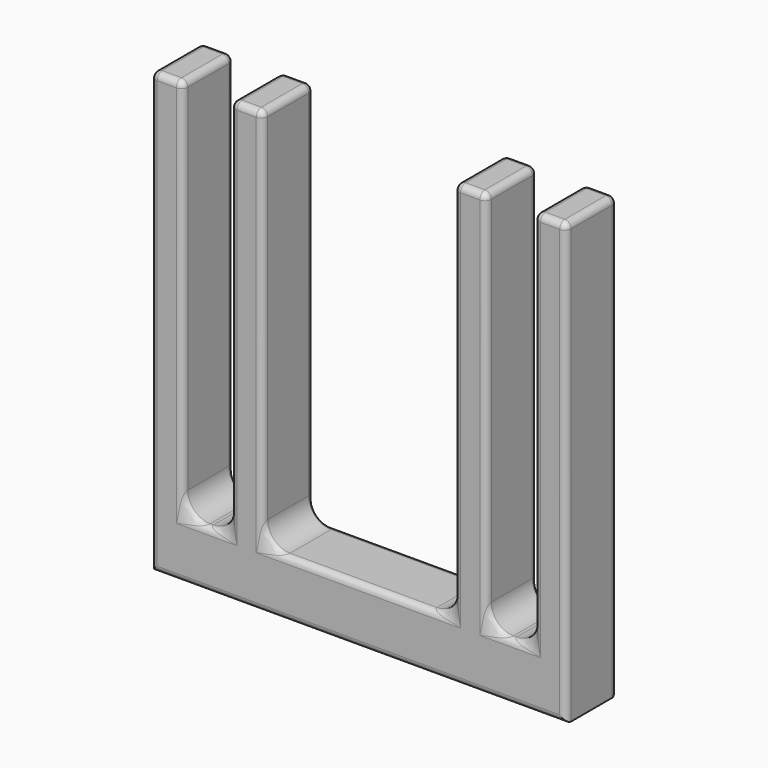
from build123d import *

# Parameters (mm, degrees)
PAD_DEPTH   = 10
FILLET_R    = 1
FILLET001_R = 3.5


with BuildPart() as part:
    # Sketch → Pad (new body)
    with BuildSketch(Plane.XZ):
        Polygon((-29.192235, 60), (-24.192235, 60), (-24.192235, 0), (-16.692235, 0), (-16.692235, 60), (-11.692235, 60), (-11.692235, 0), (18.307765, 0), (18.307765, 60), (23.307765, 60), (23.307765, 0), (30.807765, 0), (30.807765, 60), (35.807765, 60), (35.807765, -8.881385), (-29.192235, -8.881385), align=None)
    extrude(amount=PAD_DEPTH)

    # Fillet
    fillet_edges = [part.edges().sort_by_distance(p)[0] for p in [
        (-26.692235, -10, 60),
        (-24.192235, -10, 30),
        (-20.442235, -10, 0),
        (-16.692235, -10, 30),
        (-14.192235, -10, 60),
        (-11.692235, -10, 30),
        (3.307765, -10, 0),
        (18.307765, -10, 30),
        (20.807765, -10, 60),
        (23.307765, -10, 30),
        (27.057765, -10, 0),
        (30.807765, -10, 30),
        (33.307765, -10, 60),
        (35.807765, -10, 25.559307),
        (3.307765, -10, -8.881385),
        (-29.192235, -10, 25.559308),
        (-26.692235, 0, 60),
        (-24.192235, 0, 30),
        (-20.442235, 0, 0),
        (-16.692235, 0, 30),
        (-14.192235, 0, 60),
        (-11.692235, 0, 30),
        (3.307765, 0, 0),
        (18.307765, 0, 30),
        (20.807765, 0, 60),
        (23.307765, 0, 30),
        (27.057765, 0, 0),
        (30.807765, 0, 30),
        (33.307765, 0, 60),
        (35.807765, 0, 25.559307),
        (3.307765, 0, -8.881385),
        (-29.192235, 0, 25.559308),
        (-16.692235, -5, 60),
        (-11.692235, -5, 60),
        (18.307765, -5, 60),
        (23.307765, -5, 60),
        (30.807765, -5, 60),
        (35.807765, -5, 60),
        (-29.192235, -5, 60),
        (-24.192235, -5, 60),
    ]]
    fillet(fillet_edges, radius=FILLET_R)

    # Fillet001
    fillet001_edges = [part.edges().sort_by_distance(p)[0] for p in [
        (-24.192235, -5, 0),
        (-20.442235, -1, 0),
        (-20.442235, -9, 0),
        (-16.692235, -5, 0),
        (18.307765, -5, 0),
        (3.307765, -1, 0),
        (3.307765, -9, 0),
        (-11.692235, -5, 0),
        (30.807765, -5, 0),
        (27.057765, -1, 0),
        (27.057765, -9, 0),
        (23.307765, -5, 0),
    ]]
    fillet(fillet001_edges, radius=FILLET001_R)


solid = part.part
